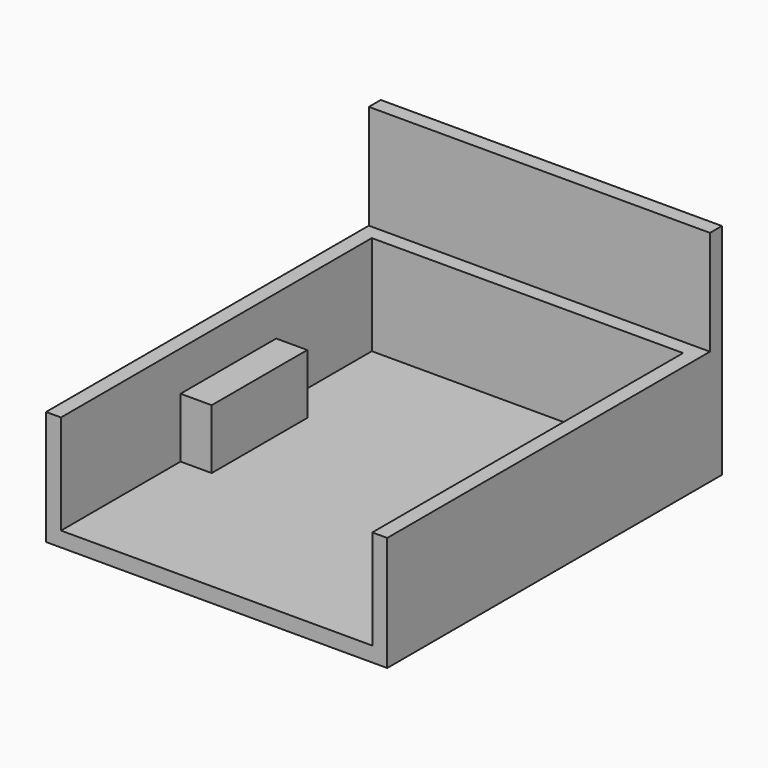
from build123d import *

# Parameters (mm, degrees)
F1_DEPTH = 1981.2
F2_W     = 1739.9
F2_H     = 584.2
F3_DEPTH = 76.2
F4_W     = 158.75
F4_H     = 609.6
F5_DEPTH = 304.8
F6_W     = 1739.9
F6_H     = 1117.6
F7_DEPTH = 76.2


with BuildPart() as f1:
    # F0 (on Front) → F1 (new body)
    with BuildSketch(Plane.XZ):
        Polygon((869.95, -292.1), (869.95, 292.1), (793.75, 292.1), (793.75, -215.9), (-793.75, -215.9), (-793.75, 292.1), (-869.95, 292.1), (-869.95, -292.1), align=None)
    extrude(amount=F1_DEPTH)

    # F2 (on face) → F3 (join)
    with BuildSketch(Plane(origin=(0, 0, 0), x_dir=(-1, 0, 0), z_dir=(0, 1, 0))):
        Rectangle(F2_W, F2_H)
    extrude(amount=F3_DEPTH)

    # F4 (on face) → F5 (join)
    with BuildSketch(Plane.XY.offset(-215.9)):
        with Locations((-714.375, -914.4)):
            Rectangle(F4_W, F4_H)
        with Locations((714.375, -914.4)):
            Rectangle(F4_W, F4_H)
    extrude(amount=F5_DEPTH)

    # F6 (on face) → F7 (join)
    with BuildSketch(Plane(origin=(0, 76.2, 0), x_dir=(-1, 0, 0), z_dir=(0, 1, 0))):
        with Locations((0, 266.7)):
            Rectangle(F6_W, F6_H)
    extrude(amount=F7_DEPTH)


solid = f1.part
